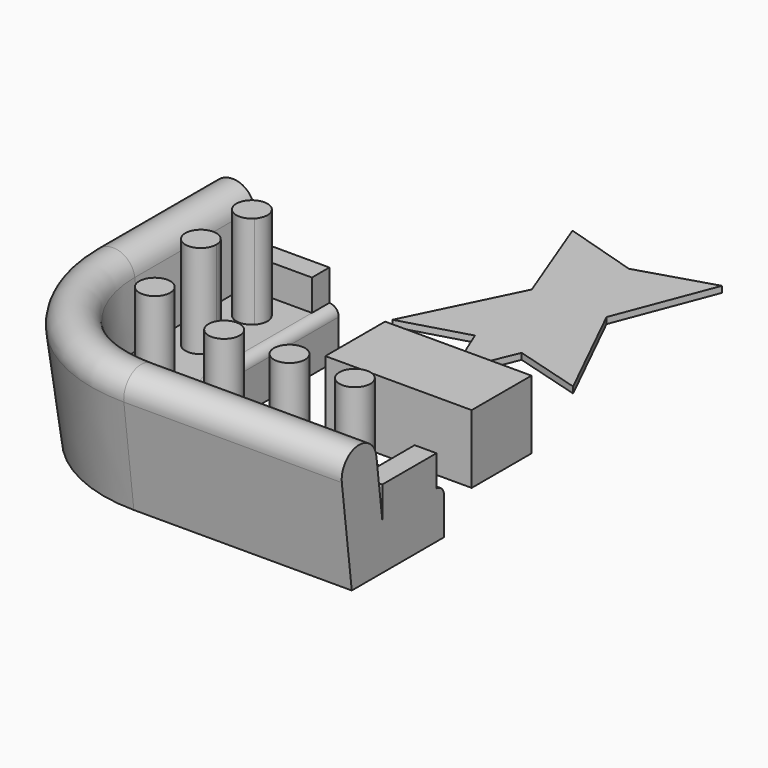
from build123d import *

# Parameters (mm, degrees)
F3_W     = 552.6802154407
F3_H     = 177.8
F3_W_2   = 177.8
F3_H_2   = 552.6802154407
F4_DEPTH = 254
F5_DEPTH = 762
F6_W     = 1193.8
F6_H     = 609.6
F7_DEPTH = 558.8
F8_DEPTH = 50.8


with BuildPart() as f2:
    # F2: sweep along a path in F1
    with BuildLine(Plane.XY) as f2_path:
        Line((0, 0), (-1778, 0))
        ThreePointArc((-1778, 0), (-2640.1045876226, 357.0954123774), (-2997.2, 1219.2))
        Line((-2997.2, 1219.2), (-2997.2, 2438.4))
    # F0 (on Right) → F2 (sweep)
    with BuildSketch(Plane.YZ):
        with BuildLine():
            Line((251.2768326259, 860.1619044934), (-101.6, 816.2380955066))
            Line((-101.6, 816.2380955066), (0, 0))
            Line((0, 0), (939.8, 0))
            Line((939.8, 0), (939.8, 304.8))
            ThreePointArc((939.8, 304.8), (917.4815367264, 358.6815367264), (863.6, 381))
            Line((863.6, 381), (310.9197845593, 381))
            Line((310.9197845593, 381), (251.2768326259, 860.1619044934))
        make_face()
        with BuildLine():
            ThreePointArc((251.2768326259, 860.1619044934), (52.8765118195, 1014.638416313), (-101.6, 816.2380955066))
            Line((-101.6, 816.2380955066), (251.2768326259, 860.1619044934))
        make_face()
    sweep(path=f2_path.line)

    # F3 (on face) → F4 (join)
    with BuildSketch(Plane.XY.offset(381)):
        with Locations((-2409.9401077203, 2349.5)):
            Rectangle(F3_W, F3_H)
        with Locations((-88.9, 587.2598922797)):
            Rectangle(F3_W_2, F3_H_2)
    extrude(amount=F4_DEPTH)

    # F3 (on face) → F5 (join)
    with BuildSketch(Plane.XY.offset(381)):
        with BuildLine():
            ThreePointArc((-317.5, 587.2598922797), (-327.6032527286, 636.9001025669), (-356.3055193286, 678.6422405702))
            Line((-356.3055193286, 678.6422405702), (-532.6944806714, 495.8775439891))
            ThreePointArc((-532.6944806714, 495.8775439891), (-394.8597897127, 470.3631450082), (-317.5, 587.2598922797))
        make_face()
        with BuildLine():
            Line((-532.6944806714, 495.8775439891), (-356.3055193286, 678.6422405702))
            ThreePointArc((-356.3055193286, 678.6422405702), (-535.8823482905, 675.4543729511), (-532.6944806714, 495.8775439891))
        make_face()
        with BuildLine():
            ThreePointArc((-850.9, 587.2598922797), (-928.2597897127, 704.1566395511), (-1066.0944806714, 678.6422405702))
            Line((-1066.0944806714, 678.6422405702), (-889.7055193286, 495.8775439891))
            ThreePointArc((-889.7055193286, 495.8775439891), (-861.0032527286, 537.6196819924), (-850.9, 587.2598922797))
        make_face()
        with BuildLine():
            Line((-889.7055193286, 495.8775439891), (-1066.0944806714, 678.6422405702))
            ThreePointArc((-1066.0944806714, 678.6422405702), (-1069.2823482905, 499.0654116082), (-889.7055193286, 495.8775439891))
        make_face()
        with BuildLine():
            Line((-1599.4944806714, 495.8775439891), (-1423.1055193286, 678.6422405702))
            ThreePointArc((-1423.1055193286, 678.6422405702), (-1602.6823482905, 675.4543729511), (-1599.4944806714, 495.8775439891))
        make_face()
        with BuildLine():
            ThreePointArc((-1384.3, 587.2598922797), (-1394.4032527286, 636.9001025669), (-1423.1055193286, 678.6422405702))
            Line((-1423.1055193286, 678.6422405702), (-1599.4944806714, 495.8775439891))
            ThreePointArc((-1599.4944806714, 495.8775439891), (-1461.6597897127, 470.3631450083), (-1384.3, 587.2598922797))
        make_face()
        with BuildLine():
            Line((-2314.6516966835, 682.5483033165), (-2135.0465742621, 862.1534257379))
            ThreePointArc((-2135.0465742621, 862.1534257379), (-2314.6516966835, 862.1534257379), (-2314.6516966835, 682.5483033165))
        make_face()
        with BuildLine():
            ThreePointArc((-2097.8491354728, 772.3508645272), (-2107.5164348439, 820.9516604376), (-2135.0465742621, 862.1534257379))
            Line((-2135.0465742621, 862.1534257379), (-2314.6516966835, 682.5483033165))
            ThreePointArc((-2314.6516966835, 682.5483033165), (-2176.2483395624, 655.0181638983), (-2097.8491354728, 772.3508645272))
        make_face()
        with BuildLine():
            Line((-2503.4426017878, 1387.2565092449), (-2316.4376136529, 1559.1434907551))
            ThreePointArc((-2316.4376136529, 1559.1434907551), (-2495.8835984754, 1566.7024940674), (-2503.4426017878, 1387.2565092449))
        make_face()
        with BuildLine():
            ThreePointArc((-2282.9401077203, 1473.2), (-2291.6104479842, 1519.3204035836), (-2316.4376136529, 1559.1434907551))
            Line((-2316.4376136529, 1559.1434907551), (-2503.4426017878, 1387.2565092449))
            ThreePointArc((-2503.4426017878, 1387.2565092449), (-2363.8197041367, 1354.8703402638), (-2282.9401077203, 1473.2))
        make_face()
        with BuildLine():
            ThreePointArc((-2501.3224560109, 2082.0944806715), (-2498.1345883918, 1902.5176517095), (-2318.5577594298, 1905.7055193286))
            Line((-2318.5577594298, 1905.7055193286), (-2501.3224560109, 2082.0944806714))
        make_face()
        with BuildLine():
            Line((-2501.3224560109, 2082.0944806714), (-2318.5577594298, 1905.7055193286))
            ThreePointArc((-2318.5577594298, 1905.7055193286), (-2292.1806957124, 1946.3424466194), (-2282.9401077203, 1993.9))
            ThreePointArc((-2282.9401077203, 1993.9), (-2362.3825543397, 2111.6594120079), (-2501.3224560109, 2082.0944806715))
        make_face()
    extrude(amount=F5_DEPTH)


with BuildPart() as f7:
    # F6 (on Top) → F7 (new body)
    with BuildSketch(Plane.XY):
        with Locations((-884.7150955342, 1887.1219158173)):
            Rectangle(F6_W, F6_H)
    extrude(amount=F7_DEPTH)


with BuildPart() as f8:
    # F6 (on Top) → F8 (new body)
    with BuildSketch(Plane.XY):
        Polygon((-1524.0235568264, 3160.8933018048), (-1333.5235568264, 2698.3379268963), (-1143.0235568264, 3160.8933018048), (-596.9235568264, 3003.1379268963), (-1028.7235568264, 3883.3520412445), (-723.9235568264, 4679.5379268963), (-1333.5235568264, 4492.9520412445), (-1943.1235568264, 4679.5379268963), (-1638.3235568264, 3883.3520412445), (-2070.1235568264, 3003.1379268963), align=None)
    extrude(amount=F8_DEPTH)


solid = Compound([f2.part, f7.part, f8.part])
